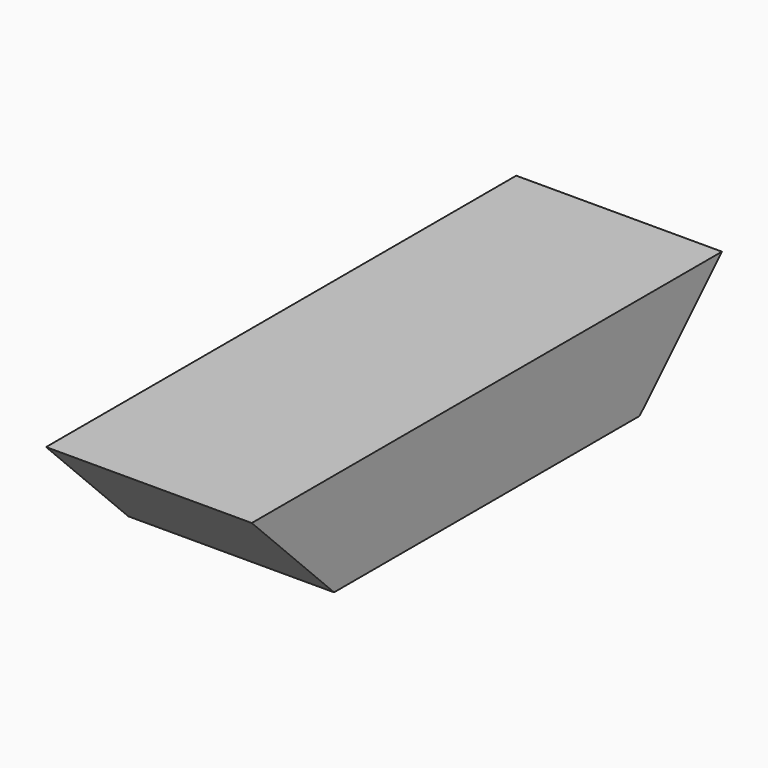
from build123d import *

# Parameters (mm, degrees)
F0_W     = 88.9
F0_H     = 44.45
F1_DEPTH = 254
F3_DEPTH = 101.6


with BuildPart() as f1:
    # F0 (on Front) → F1 (new body)
    with BuildSketch(Plane.XZ):
        with Locations((44.45, 22.225)):
            Rectangle(F0_W, F0_H)
    extrude(amount=F1_DEPTH)

    # F2 (on face) → F3 (cut)
    with BuildSketch(Plane.YZ.offset(88.9)):
        Polygon((-209.55, 0), (-254, 44.45), (-254, 0), align=None)
        Polygon((0, 0), (0, 44.45), (-44.45, 0), align=None)
    extrude(amount=-F3_DEPTH, mode=Mode.SUBTRACT)


solid = f1.part
